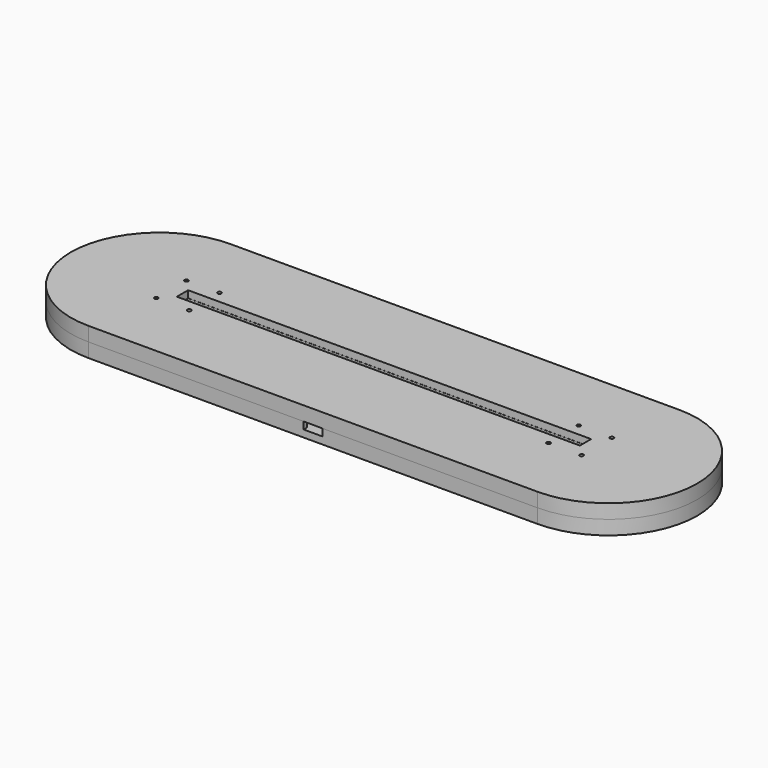
from build123d import *

# Parameters (mm, degrees)
BOX_BOTTOM_HALF_0_W     = 266.988319
BOX_BOTTOM_HALF_0_H     = 77
BOX_BOTTOM_HALF_0_DEPTH = 7
PAD_DEPTH               = 6
POCKET_DEPTH            = 3
SKETCH002_W             = 18.4
SKETCH002_H             = 20.85
POCKET001_DEPTH         = 3
SKETCH003_W             = 8
SKETCH003_H             = 1.65
POCKET002_DEPTH         = 3
SKETCH004_W             = 185.077476
SKETCH004_H             = 5.85
PAD001_DEPTH            = 3
SKETCH005_W             = 170.5
SKETCH005_H             = 5.95
PAD002_DEPTH            = 3
SKETCH007_R             = 0.8
POCKET003_DEPTH         = 563.341185


with BuildPart() as box_bottom_half_0_body:
    # box_bottom_half_0 → box_bottom_half_0 (new body)
    with BuildSketch(Plane(origin=(-133.49416, -38.5, -1), x_dir=(1, 0, 0), z_dir=(0, 0, 1))):
        with Locations((133.494159, 38.5)):
            Rectangle(BOX_BOTTOM_HALF_0_W, BOX_BOTTOM_HALF_0_H)
    extrude(amount=BOX_BOTTOM_HALF_0_DEPTH)


with BuildPart() as body:
    # Sketch → Pad (new body)
    with BuildSketch(Plane.XY):
        with BuildLine():
            ThreePointArc((-95, 37.5), (-132.5, 0), (-95, -37.5))
            Line((-95, -37.5), (95, -37.5))
            ThreePointArc((95, -37.5), (132.5, 0), (95, 37.5))
            Line((-95, 37.5), (95, 37.5))
        make_face()
    extrude(amount=PAD_DEPTH)

    # Sketch001 (on Face6 of Pad) → Pocket (cut)
    with BuildSketch(Plane.XY.offset(6)):
        with BuildLine():
            ThreePointArc((-87.3, 6), (-93.3, 0), (-87.3, -6))
            Line((-87.3, -6), (87.3, -6))
            ThreePointArc((87.3, -6), (93.3, 0), (87.3, 6))
            Line((-87.3, 6), (87.3, 6))
        make_face()
    extrude(amount=-POCKET_DEPTH, mode=Mode.SUBTRACT)

    # Sketch002 (on Face5 of Pocket) → Pocket001 (cut)
    with BuildSketch(Plane.XY.offset(6)):
        with Locations((0, -25.425)):
            Rectangle(SKETCH002_W, SKETCH002_H)
    extrude(amount=-POCKET001_DEPTH, mode=Mode.SUBTRACT)

    # Sketch003 (on Face5 of Pocket001) → Pocket002 (cut)
    with BuildSketch(Plane.XY.offset(6)):
        with Locations((0, -36.675)):
            Rectangle(SKETCH003_W, SKETCH003_H)
    extrude(amount=-POCKET002_DEPTH, mode=Mode.SUBTRACT)

    # Sketch004 (on Face5 of Pocket002) → Pad001 (join)
    with BuildSketch(Plane.XY.offset(6)):
        with BuildLine():
            ThreePointArc((-95, 37.5), (-132.5, 0), (-95, -37.5))
            Line((-95, -37.5), (95, -37.5))
            ThreePointArc((95, -37.5), (132.5, 0), (95, 37.5))
            Line((-95, 37.5), (95, 37.5))
        make_face()
        Rectangle(SKETCH004_W, SKETCH004_H, mode=Mode.SUBTRACT)
    extrude(amount=PAD001_DEPTH)

    # Sketch005 (on Face12 of Pad001) → Pad002 (join)
    with BuildSketch(Plane.XY.offset(9)):
        with BuildLine():
            ThreePointArc((-95, 37.5), (-132.5, 0), (-95, -37.5))
            Line((-95, -37.5), (95, -37.5))
            ThreePointArc((95, -37.5), (132.5, 0), (95, 37.5))
            Line((-95, 37.5), (95, 37.5))
        make_face()
        Rectangle(SKETCH005_W, SKETCH005_H, mode=Mode.SUBTRACT)
    extrude(amount=PAD002_DEPTH)

    # Sketch007 (on Face20 of Pad002) → Pocket003 (cut, through all)
    with BuildSketch(Plane.XY.offset(12)):
        with Locations((-90, -8)):
            Circle(SKETCH007_R)
        with Locations((-90, 8)):
            Circle(SKETCH007_R)
        with Locations((-76, 8)):
            Circle(SKETCH007_R)
        with Locations((-76, -8)):
            Circle(SKETCH007_R)
    pocket003 = extrude(amount=-POCKET003_DEPTH, mode=Mode.SUBTRACT)

    # Mirrored: Pocket003 across Sketch007 V_Axis
    add(pocket003.mirror(Plane(origin=(0, 0, 12), x_dir=(0, 0, 1), z_dir=(1, 0, 0))), mode=Mode.SUBTRACT)


with BuildPart() as bottom_half_0_body:
    # bottom_half_0 base: copy of Body
    add(body.part)

    # bottom_half_0: intersect box_bottom_half_0 body
    add(box_bottom_half_0_body.part, mode=Mode.INTERSECT)


with BuildPart() as top_half_0_body:
    # top_half_0 base: copy of Body
    add(body.part)

    # top_half_0: cut box_bottom_half_0 body
    add(box_bottom_half_0_body.part, mode=Mode.SUBTRACT)


solid = Compound([bottom_half_0_body.part, top_half_0_body.part])
